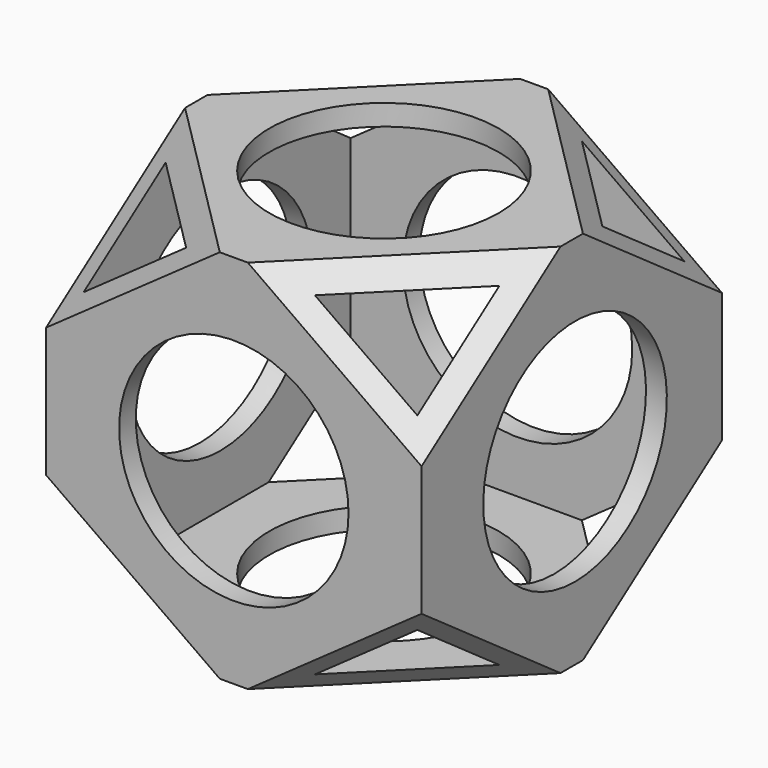
from build123d import *

# Parameters (mm, degrees)
EXTRUDE001_DEPTH           = 30
EXTRUDE001_PLACEMENT_ANGLE = 315
EXTRUDE_DEPTH              = 30
EXTRUDE_PLACEMENT_ANGLE    = 45
CYLINDER002_R              = 27.5
CYLINDER002_DEPTH          = 90
CYLINDER001_R              = 27.5
CYLINDER001_DEPTH          = 90
CYLINDER_R                 = 27.5
CYLINDER_DEPTH             = 90
BOX001_W                   = 80
BOX001_H                   = 80
BOX001_DEPTH               = 80
BOX_W                      = 90
BOX_H                      = 90
BOX_DEPTH                  = 90


with BuildPart() as extrude001:
    # Sketch001 → Extrude001 (new body, symmetric)
    with BuildSketch(Plane.XZ):
        Polygon((-29.195959, 50), (-65, 50), (-65, 14.195959), align=None)
        Polygon((29.195959, 50), (65, 50), (65, 14.195959), align=None)
        Polygon((65, -14.195959), (65, -50), (29.195959, -50), align=None)
        Polygon((-65, -14.195959), (-65, -50), (-29.195959, -50), align=None)
    extrude(amount=EXTRUDE001_DEPTH, both=True)


with BuildPart() as extrude001_1:
    # Extrude001 placement: moved
    add(extrude001.part.rotate(Axis((0, 0, 0), (0, 0, 1)), EXTRUDE001_PLACEMENT_ANGLE))


with BuildPart() as extrude_body:
    # Sketch → Extrude (new body, symmetric)
    with BuildSketch(Plane.XZ):
        Polygon((-29.195959, 50), (-65, 50), (-65, 14.195959), align=None)
        Polygon((29.195959, 50), (65, 50), (65, 14.195959), align=None)
        Polygon((65, -14.195959), (65, -50), (29.195959, -50), align=None)
        Polygon((-65, -14.195959), (-65, -50), (-29.195959, -50), align=None)
    extrude(amount=EXTRUDE_DEPTH, both=True)


with BuildPart() as extrude_body_1:
    # Extrude placement: moved
    add(extrude_body.part.rotate(Axis((0, 0, 0), (0, 0, 1)), EXTRUDE_PLACEMENT_ANGLE))


with BuildPart() as cylinder002:
    # Cylinder002 → Cylinder002 (new body)
    with BuildSketch(Plane(origin=(-45, 1, 0), x_dir=(0, 0, -1), z_dir=(1, 0, 0))):
        Circle(CYLINDER002_R)
    extrude(amount=CYLINDER002_DEPTH)


with BuildPart() as cylinder001:
    # Cylinder001 → Cylinder001 (new body)
    with BuildSketch(Plane.XZ.offset(-45)):
        Circle(CYLINDER001_R)
    extrude(amount=CYLINDER001_DEPTH)


with BuildPart() as cylinder:
    # Cylinder → Cylinder (new body)
    with BuildSketch(Plane.XY.offset(-45)):
        Circle(CYLINDER_R)
    extrude(amount=CYLINDER_DEPTH)


with BuildPart() as cube001:
    # Box001 → Box001 (new body)
    with BuildSketch(Plane(origin=(-40, -40, -40), x_dir=(1, 0, 0), z_dir=(0, 0, 1))):
        with Locations((40, 40)):
            Rectangle(BOX001_W, BOX001_H)
    extrude(amount=BOX001_DEPTH)


with BuildPart() as cut005:
    # Box → Box (new body)
    with BuildSketch(Plane(origin=(-45, -45, -45), x_dir=(1, 0, 0), z_dir=(0, 0, 1))):
        with Locations((45, 45)):
            Rectangle(BOX_W, BOX_H)
    extrude(amount=BOX_DEPTH)

    # Cut: cut Cube001
    add(cube001.part, mode=Mode.SUBTRACT)

    # Cut001: cut Cylinder
    add(cylinder.part, mode=Mode.SUBTRACT)

    # Cut002: cut Cylinder001
    add(cylinder001.part, mode=Mode.SUBTRACT)

    # Cut003: cut Cylinder002
    add(cylinder002.part, mode=Mode.SUBTRACT)

    # Cut004: cut Extrude body
    add(extrude_body_1.part, mode=Mode.SUBTRACT)

    # Cut005: cut Extrude001
    add(extrude001_1.part, mode=Mode.SUBTRACT)


solid = cut005.part
